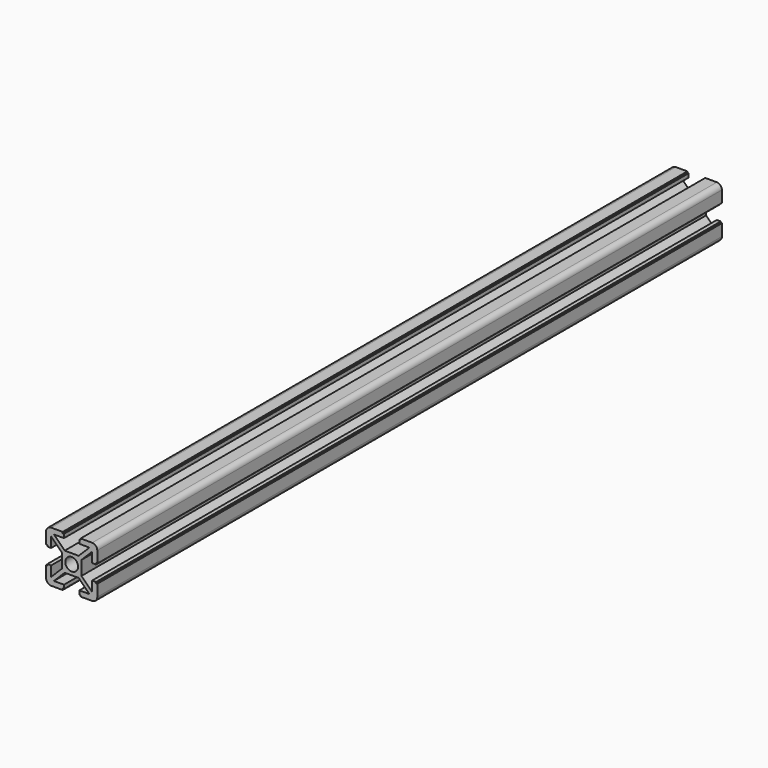
from build123d import *

# Parameters (mm, degrees)
F0_R     = 2.5
F2_DEPTH = 305


with BuildPart() as f2:
    # F0 (on Front) → F2 (new body)
    with BuildSketch(Plane.XZ):
        with BuildLine():
            Line((-3.5, 10), (-8, 10))
            ThreePointArc((-8, 10), (-9.4142135624, 9.4142135624), (-10, 8))
            Line((-10, 8), (-10, 3.5142899808))
            Line((-10, 3.5142899808), (-9.5051769167, 3.510004608))
            Line((-9.5051769167, 3.510004608), (-9.5051769167, 3))
            Line((-9.5051769167, 3), (-8, 3))
            Line((-8, 3), (-8, 6.9166062183))
            Line((-8, 6.9166062183), (-3.8, 2.7362947083))
            Line((-3.8, 2.7362947083), (-3.8, -2.7393398282))
            Line((-3.8, -2.7393398282), (-8, -6.9393398282))
            Line((-8, -6.9393398282), (-8, -3))
            Line((-8, -3), (-9.5, -3))
            Line((-9.5, -3), (-9.5, -3.5))
            Line((-9.5, -3.5), (-10, -3.5))
            Line((-10, -3.5), (-10, -8))
            ThreePointArc((-10, -8), (-9.4142135624, -9.4142135624), (-8, -10))
            Line((-8, -10), (-3.5, -10))
            Line((-3.5, -10), (-3.5, -9.5))
            Line((-3.5, -9.5), (-3, -9.5))
            Line((-3, -9.5), (-3, -8))
            Line((-3, -8), (-6.9393398282, -8))
            Line((-6.9393398282, -8), (-2.7393398282, -3.8))
            Line((-2.7393398282, -3.8), (2.7393398282, -3.8))
            Line((2.7393398282, -3.8), (6.9393398282, -8))
            Line((6.9393398282, -8), (3.015800612, -8))
            Line((3.015800612, -8), (3.015800612, -9.5))
            Line((3.015800612, -9.5), (3.5, -9.5))
            Line((3.5, -9.5), (3.5, -10))
            Line((3.5, -10), (8, -10))
            ThreePointArc((8, -10), (9.4142135624, -9.4142135624), (10, -8))
            Line((10, -8), (10, -3.4626608249))
            Line((10, -3.4626608249), (9.5363645284, -3.4624647606))
            Line((9.5363645284, -3.4624647606), (9.532302618, -2.9822008219))
            Line((9.532302618, -2.9822008219), (8, -2.9822008219))
            Line((8, -2.9822008219), (7.9998106987, -6.9393398192))
            Line((7.9998106987, -6.9393398192), (3.8264202785, -2.765949399))
            Line((3.8264202785, -2.765949399), (3.8264202785, 2.753291521))
            Line((3.8264202785, 2.753291521), (7.9998106987, 6.9393398373))
            Line((7.9998106987, 6.9393398373), (7.9998106987, 3.0000000091))
            Line((7.9998106987, 3.0000000091), (9.4998106987, 3.0000000091))
            Line((9.4998106987, 3.0000000091), (9.4998106987, 3.5000000091))
            Line((9.4998106987, 3.5000000091), (10, 3.5000000091))
            Line((10, 3.5000000091), (10, 8))
            ThreePointArc((10, 8), (9.4142135624, 9.4142135624), (8, 10))
            Line((8, 10), (3.4962801728, 10.0202495232))
            Line((3.4962801728, 10.0202495232), (3.5, 9.5))
            Line((3.5, 9.5), (3.015800612, 9.5))
            Line((3.015800612, 9.5), (3.015800612, 8))
            Line((3.015800612, 8), (6.9393398282, 8))
            Line((6.9393398282, 8), (2.7393121854, 3.7999723572))
            Line((2.7393121854, 3.7999723572), (-2.7393398282, 3.8))
            Line((-2.7393398282, 3.8), (-6.9393398282, 8))
            Line((-6.9393398282, 8), (-3, 8))
            Line((-3, 8), (-3, 9.5))
            Line((-3, 9.5), (-3.5, 9.5))
            Line((-3.5, 9.5), (-3.5, 10))
        make_face()
        Circle(F0_R, mode=Mode.SUBTRACT)
    extrude(amount=F2_DEPTH)


solid = f2.part
